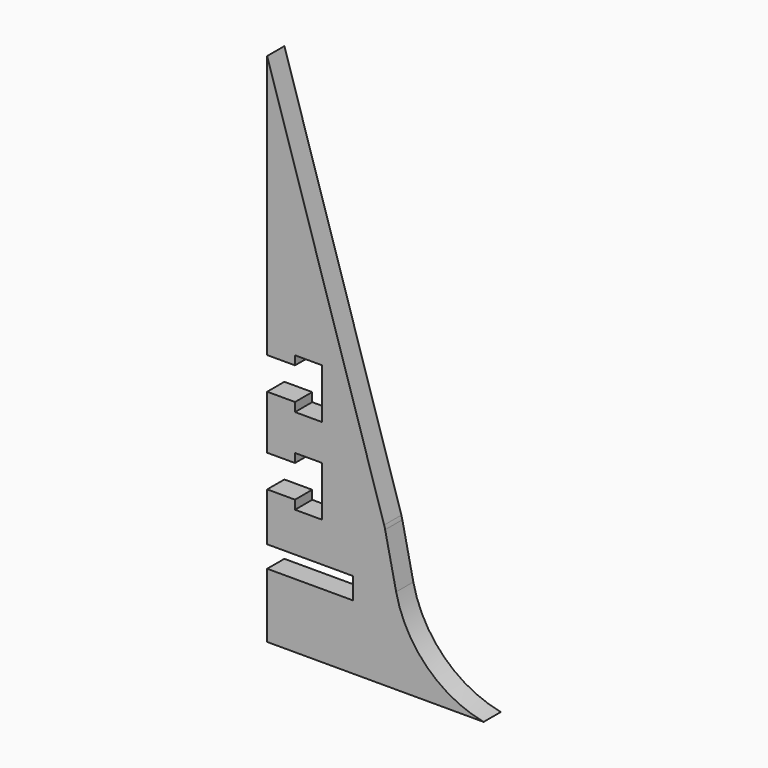
from build123d import *

# Parameters (mm, degrees)
F1_DEPTH = 3.175


with BuildPart() as f1:
    # F0 (on Front) → F1 (new body)
    with BuildSketch(Plane.XZ):
        with BuildLine():
            ThreePointArc((19.272455, -76.2), (10.907118, -71.787462), (6.35, -63.5))
            Line((6.35, -63.5), (4.726481, -55.935776))
            ThreePointArc((4.726481, -55.935776), (4.659413, -55.65464), (4.579622, -55.376848))
            Line((4.579622, -55.376848), (-12.7, 0))
            Line((-12.7, 0), (-12.7, -38.89375))
            Line((-12.7, -38.89375), (-8.587963, -38.89375))
            Line((-8.587963, -38.89375), (-8.587963, -37.58333))
            Line((-8.587963, -37.58333), (-4.619213, -37.58333))
            Line((-4.619213, -37.58333), (-4.619213, -44.96667))
            Line((-4.619213, -44.96667), (-8.587963, -44.96667))
            Line((-8.587963, -44.96667), (-8.587963, -43.65625))
            Line((-8.587963, -43.65625), (-12.7, -43.65625))
            Line((-12.7, -43.65625), (-12.7, -51.59375))
            Line((-12.7, -51.59375), (-8.587963, -51.59375))
            Line((-8.587963, -51.59375), (-8.587963, -50.28333))
            Line((-8.587963, -50.28333), (-4.619213, -50.28333))
            Line((-4.619213, -50.28333), (-4.619213, -57.66667))
            Line((-4.619213, -57.66667), (-8.587963, -57.66667))
            Line((-8.587963, -57.66667), (-8.587963, -56.35625))
            Line((-8.587963, -56.35625), (-12.7, -56.35625))
            Line((-12.7, -56.35625), (-12.7, -63.5))
            Line((-12.7, -63.5), (0, -63.5))
            Line((0, -63.5), (0, -66.675))
            Line((0, -66.675), (-12.7, -66.675))
            Line((-12.7, -66.675), (-12.7, -76.2))
            Line((-12.7, -76.2), (19.272455, -76.2))
        make_face()
    extrude(amount=F1_DEPTH)


solid = f1.part
